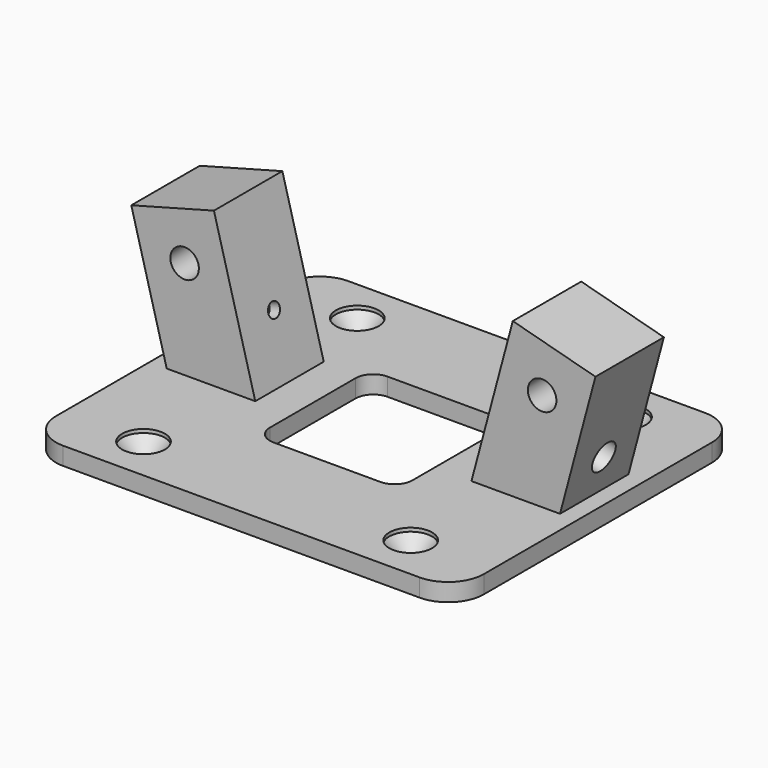
from build123d import *

# Parameters (mm, degrees)
CYLINDER_R               = 6
CYLINDER_DEPTH           = 60
CYLINDER001_R            = 2.5
CYLINDER001_DEPTH        = 40
ARRAY001_COUNT           = 4
ARRAY001_PLACEMENT_ANGLE = 45
BOX007_W                 = 40
BOX007_H                 = 40
BOX007_DEPTH             = 10
FILLET001_R              = 5
CYLINDER003_R            = 70
CYLINDER003_DEPTH        = 20
CYLINDER004_R            = 4
CYLINDER004_DEPTH        = 60
CYLINDER005_R            = 2
CYLINDER005_DEPTH        = 40
BODY004_PLACEMENT_ANGLE  = 90
BODY003_PLACEMENT_ANGLE  = 90
BOX005_W                 = 24
BOX005_H                 = 24
BOX005_DEPTH             = 50
CUT002_PLACEMENT_ANGLE   = 15
BOX006_W                 = 120
BOX006_H                 = 100
BOX006_DEPTH             = 5
FILLET_R                 = 10


with BuildPart() as cone001:
    # Cone001 → Cone001 (revolve)
    with BuildSketch(Plane.XZ):
        Polygon((0, 0), (2.5, 0), (6, 4), (0, 4), align=None)
    revolve(axis=Axis((0, 0, 0), (0, 0, 1)))


with BuildPart() as cylinder:
    # Cylinder → Cylinder (new body)
    with BuildSketch(Plane.XY.offset(4)):
        Circle(CYLINDER_R)
    extrude(amount=CYLINDER_DEPTH)


with BuildPart() as screw_hole_clone:
    # Cylinder001 → Cylinder001 (new body)
    with BuildSketch(Plane.XY.offset(-40)):
        Circle(CYLINDER001_R)
    extrude(amount=CYLINDER001_DEPTH)

    # Fusion002: union Cone001, Cylinder
    add(cone001.part)
    add(cylinder.part)


with BuildPart() as screw_hole_clone_1:
    # Fusion002 placement: moved
    add(screw_hole_clone.part.moved(Location((0, 0, 5))))


with BuildPart() as screw_hole_clone_2:
    # Body001 placement: moved
    add(screw_hole_clone_1.part.moved(Location((0, 0, -5))))


with BuildPart() as array001:
    # Body002 base: copy of screw hole clone
    add(screw_hole_clone_2.part)


with BuildPart() as array001_1:
    # Body002 placement: moved
    add(array001.part.moved(Location((0, 53, 0))))

    # Array001: Array001 ×4 about axis
    array001_axis = Axis((0, 0, 0), (0, 0, 1))


with BuildPart() as array001_2:
    add(array001_1.part)
    for i in range(1, ARRAY001_COUNT):
        add(array001_1.part.rotate(array001_axis, i * 360 / ARRAY001_COUNT))


with BuildPart() as array001_3:
    # Array001 placement: moved
    add(array001_2.part.rotate(Axis((0, 0, 0), (0, 0, 1)), ARRAY001_PLACEMENT_ANGLE))


with BuildPart() as central_hole_cube_fillet:
    # Box007 → Box007 (new body)
    with BuildSketch(Plane(origin=(-20, -20, 0), x_dir=(1, 0, 0), z_dir=(0, 0, 1))):
        with Locations((20, 20)):
            Rectangle(BOX007_W, BOX007_H)
    extrude(amount=BOX007_DEPTH)

    # Fillet001
    fillet001_edges = [central_hole_cube_fillet.edges().sort_by_distance(p)[0] for p in [
        (-20, -20, 5),
        (-20, 20, 5),
        (20, -20, 5),
        (20, 20, 5),
    ]]
    fillet(fillet001_edges, radius=FILLET001_R)


with BuildPart() as extraction_fusion:
    # Cylinder003 → Cylinder003 (new body)
    with BuildSketch(Plane.XY.offset(-20)):
        Circle(CYLINDER003_R)
    extrude(amount=CYLINDER003_DEPTH)

    # Fusion006: union screw hole clone, Array001, central hole cube fillet
    add(screw_hole_clone_2.part)
    add(array001_3.part)
    add(central_hole_cube_fillet.part)


with BuildPart() as cone002:
    # Cone002 → Cone002 (revolve)
    with BuildSketch(Plane.XZ):
        Polygon((0, 0), (2, 0), (4, 4), (0, 4), align=None)
    revolve(axis=Axis((0, 0, 0), (0, 0, 1)))


with BuildPart() as cylinder004:
    # Cylinder004 → Cylinder004 (new body)
    with BuildSketch(Plane.XY.offset(4)):
        Circle(CYLINDER004_R)
    extrude(amount=CYLINDER004_DEPTH)


with BuildPart() as m3_screw_hole_fusion:
    # Cylinder005 → Cylinder005 (new body)
    with BuildSketch(Plane.XY.offset(-40)):
        Circle(CYLINDER005_R)
    extrude(amount=CYLINDER005_DEPTH)

    # Fusion007: union Cone002, Cylinder004
    add(cone002.part)
    add(cylinder004.part)


with BuildPart() as m3_screw_hole_fusion_1:
    # Fusion007 placement: moved
    add(m3_screw_hole_fusion.part.moved(Location((0, 0, 5))))


with BuildPart() as m3_screw_hole_fusion_clone001:
    # Body004 base: copy of m3 screw hole fusion
    add(m3_screw_hole_fusion_1.part)


with BuildPart() as m3_screw_hole_fusion_clone001_1:
    # Body004 placement: moved
    add(m3_screw_hole_fusion_clone001.part.moved(Location((12, 26, 37))).rotate(Axis((12, 26, 37), (1, 0, 0)), BODY004_PLACEMENT_ANGLE))


with BuildPart() as m3_hole_fusion:
    # Body003 base: copy of m3 screw hole fusion
    add(m3_screw_hole_fusion_1.part)


with BuildPart() as m3_hole_fusion_1:
    # Body003 placement: moved
    add(m3_hole_fusion.part.moved(Location((-2, 12, 22))).rotate(Axis((-2, 12, 22), (0, 1, 0)), BODY003_PLACEMENT_ANGLE))

    # Fusion008: union m3 screw hole fusion clone001
    add(m3_screw_hole_fusion_clone001_1.part)


with BuildPart() as cube_cut:
    # Box005 → Box005 (new body)
    with BuildSketch(Plane.XY):
        with Locations((12, 12)):
            Rectangle(BOX005_W, BOX005_H)
    extrude(amount=BOX005_DEPTH)

    # Cut002: cut m3 hole fusion
    add(m3_hole_fusion_1.part, mode=Mode.SUBTRACT)


with BuildPart() as cube_cut_1:
    # Cut002 placement: moved
    add(cube_cut.part.moved(Location((28.9778, -7.23543, 0))).rotate(Axis((28.9778, -7.23543, 0), (0, 1, 0)), CUT002_PLACEMENT_ANGLE))


with BuildPart() as base_cube_fillet:
    # Box006 → Box006 (new body)
    with BuildSketch(Plane(origin=(-60, -50, 0), x_dir=(1, 0, 0), z_dir=(0, 0, 1))):
        with Locations((60, 50)):
            Rectangle(BOX006_W, BOX006_H)
    extrude(amount=BOX006_DEPTH)

    # Fillet
    fillet_edges = [base_cube_fillet.edges().sort_by_distance(p)[0] for p in [
        (-60, -50, 2.5),
        (-60, 50, 2.5),
        (60, -50, 2.5),
        (60, 50, 2.5),
    ]]
    fillet(fillet_edges, radius=FILLET_R)


with BuildPart() as stand_cut_v2:
    # Part__Mirroring001: instance of cube cut
    add(cube_cut_1.part.mirror(Plane(origin=(0, 7, 0), x_dir=(0, -1, 0), z_dir=(1, 0, 0))))

    # Fusion005: union cube cut, base cube fillet
    add(cube_cut_1.part)
    add(base_cube_fillet.part)

    # Cut001: cut extraction fusion
    add(extraction_fusion.part, mode=Mode.SUBTRACT)


solid = stand_cut_v2.part
